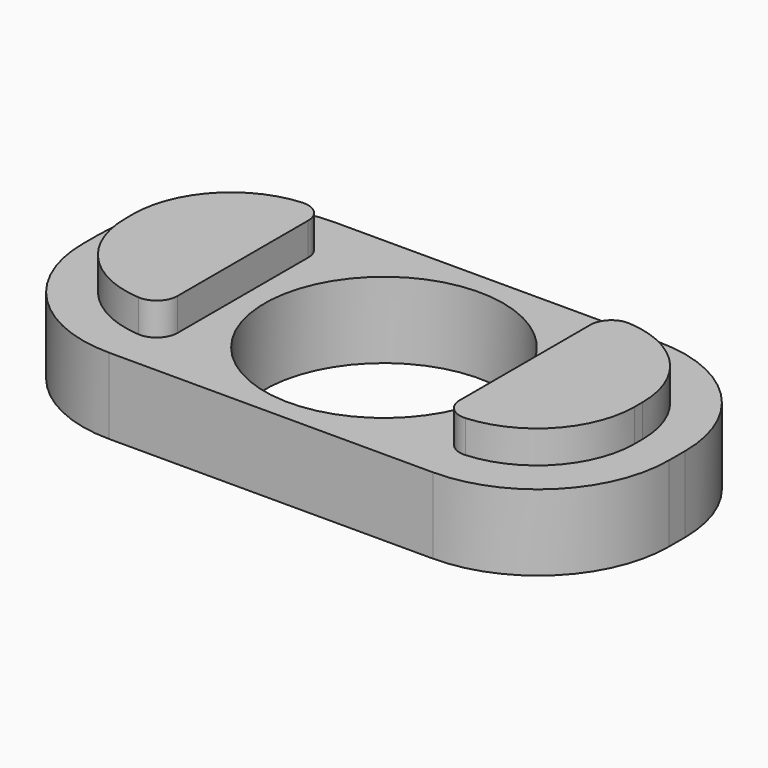
from build123d import *

# Parameters (mm, degrees)
F0_W     = 54
F0_H     = 26
F0_R     = 11
F1_DEPTH = 7
F2_R     = 12.0710678119
F3_W     = 10.4644660941
F3_H     = 18.9284660941
F4_DEPTH = 3
F5_R     = 9
F6_DEPTH = 3
F7_R     = 9
F8_R     = 1.9313708499


with BuildPart() as f1:
    # F0 (on Top) → F1 (new body)
    with BuildSketch(Plane.XY):
        Rectangle(F0_W, F0_H)
        Circle(F0_R, mode=Mode.SUBTRACT)
    extrude(amount=F1_DEPTH)

    # F2
    f2_edges = [f1.edges().sort_by_distance(p)[0] for p in [
        (-27, -13, 3.5),
        (-27, 13, 3.5),
        (27, -13, 3.5),
        (27, 13, 3.5),
    ]]
    fillet(f2_edges, radius=F2_R)

    # F3 (on face) → F4 (join)
    with BuildSketch(Plane.XY.offset(7)):
        with Locations((-18.232233047, 0.000233047)):
            Rectangle(F3_W, F3_H)
        with Locations((18.232233047, 0.000233047)):
            Rectangle(F3_W, F3_H)
    extrude(amount=F4_DEPTH)

    # F5
    f5_edges = [f1.edges().sort_by_distance(p)[0] for p in [
        (-23.464466, -9.464, 8.5),
        (23.464466, -9.464, 8.5),
        (-23.464466, 9.464466, 8.5),
        (23.464466, 9.464466, 8.5),
    ]]
    fillet(f5_edges, radius=F5_R)

    # F3 (on face) → F6 (join)
    with BuildSketch(Plane.XY.offset(7)):
        with Locations((-18.232233047, 0.000233047)):
            Rectangle(F3_W, F3_H)
        with Locations((18.232233047, 0.000233047)):
            Rectangle(F3_W, F3_H)
    extrude(amount=F6_DEPTH)

    # F7
    f7_edges = [f1.edges().sort_by_distance(p)[0] for p in [
        (-23.464466, 9.464466, 8.5),
        (-23.464466, -9.464, 8.5),
        (23.464466, -9.464, 8.5),
        (23.464466, 9.464466, 8.5),
    ]]
    fillet(f7_edges, radius=F7_R)

    # F8
    f8_edges = [f1.edges().sort_by_distance(p)[0] for p in [
        (13, -9.464, 8.5),
        (13, 9.464466, 8.5),
        (-13, -9.464, 8.5),
        (-13, 9.464466, 8.5),
    ]]
    fillet(f8_edges, radius=F8_R)


solid = f1.part
